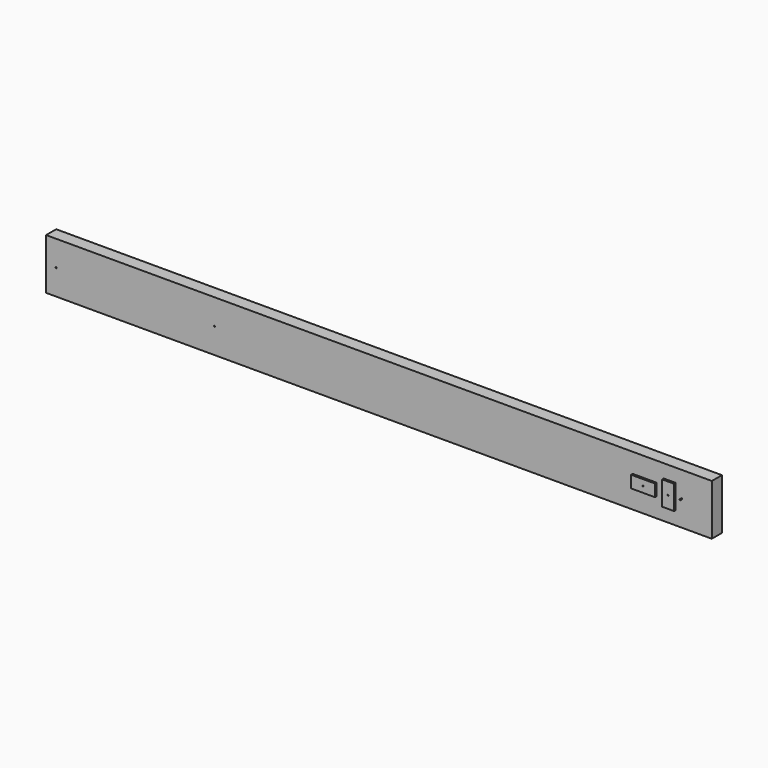
from build123d import *

# Parameters (mm, degrees)
F1_DEPTH = 6.3
F2_R     = 0.25
F3_DEPTH = 1
F4_R     = 0.25
F5_DEPTH = 1
F7_R     = 0.25
F8_DEPTH = 1
F6_R     = 0.25
F9_DEPTH = 1


with BuildPart() as f1:
    # F0 (on Front) → F1 (new body)
    with BuildSketch(Plane.XZ):
        Polygon((0, -12.69), (0, 0), (0, 12.69), (-317, 12.69), (-317, -12.69), align=None)
        Polygon((0, 12.69), (0, 0), (0, -12.69), (15, -12.69), (15, 12.69), align=None)
    extrude(amount=F1_DEPTH)

    # F2 (on face) → F3 (cut)
    with BuildSketch(Plane.XZ.offset(6.3)):
        with Locations((-312, 0)):
            Circle(F2_R)
    extrude(amount=-F3_DEPTH, mode=Mode.SUBTRACT)

    # F4 (on face) → F5 (cut)
    with BuildSketch(Plane.XZ.offset(6.3)):
        with Locations((-233, 0)):
            Circle(F4_R)
    extrude(amount=-F5_DEPTH, mode=Mode.SUBTRACT)

    # F7 (on face) → F8 (join)
    with BuildSketch(Plane.XZ.offset(6.3)):
        with BuildLine():
            ThreePointArc((0.25, 0), (0, 0.25), (-0.25, 0))
            ThreePointArc((-0.25, 0), (0, -0.25), (0.25, 0))
        make_face()
        with Locations((-6, 0)):
            Circle(F7_R)
        Polygon((-9, 6), (-9, 0), (-9, -6), (-3, -6), (-3, 0), (-3, 6), align=None)
        with Locations((-6, 0)):
            Circle(F7_R, mode=Mode.SUBTRACT)
    extrude(amount=F8_DEPTH)

    # F6 (on face) → F9 (join)
    with BuildSketch(Plane.XZ.offset(6.3)):
        with Locations((-18.5, 0)):
            Circle(F6_R)
        Polygon((-24.5, 3), (-24.5, 0), (-24.5, -3), (-18.5, -3), (-12.5, -3), (-12.5, 0), (-12.5, 3), (-18.5, 3), align=None)
        with Locations((-18.5, 0)):
            Circle(F6_R, mode=Mode.SUBTRACT)
    extrude(amount=F9_DEPTH)


solid = f1.part
